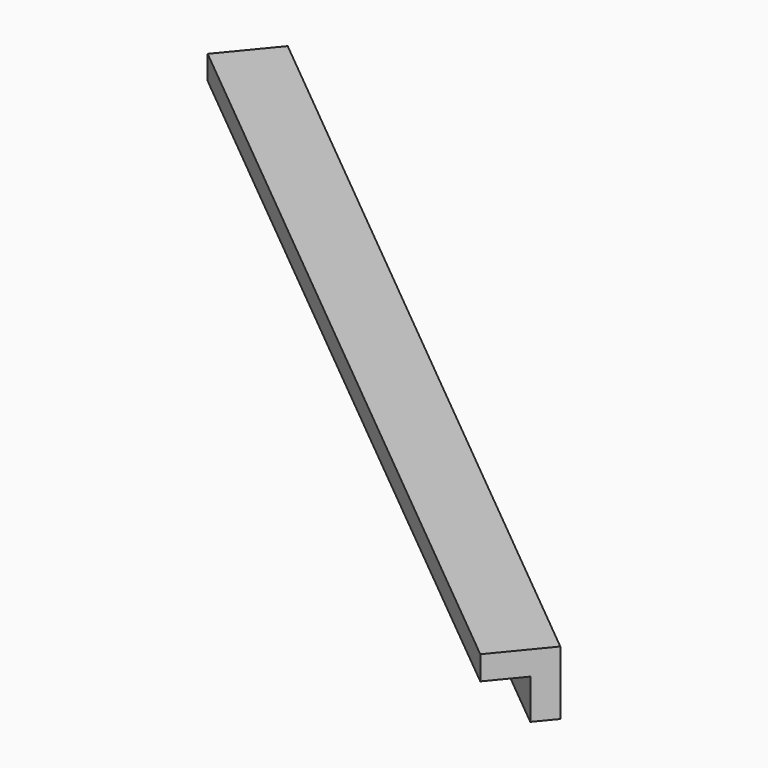
from build123d import *

# Parameters (mm, degrees)
BOX129_W               = 0.8
BOX129_H               = 13
BOX129_DEPTH           = 0.8
BOX130_W               = 0.8
BOX130_H               = 13
BOX130_DEPTH           = 0.8
CUT068_PLACEMENT_ANGLE = 50.5


with BuildPart() as cubo129:
    # Box129 → Box129 (new body)
    with BuildSketch(Plane.XY):
        with Locations((0.4, 6.5)):
            Rectangle(BOX129_W, BOX129_H)
    extrude(amount=BOX129_DEPTH)


with BuildPart() as obj1:
    # Box130 → Box130 (new body)
    with BuildSketch(Plane(origin=(0.3, 0, 0.3), x_dir=(1, 0, 0), z_dir=(0, 0, 1))):
        with Locations((0.4, 6.5)):
            Rectangle(BOX130_W, BOX130_H)
    extrude(amount=BOX130_DEPTH)

    # Cut068: cut Cubo129
    add(cubo129.part, mode=Mode.SUBTRACT)


with BuildPart() as obj1_1:
    # Cut068 placement: moved
    add(obj1.part.moved(Location((-169.4, 142.8, -1.45))).rotate(Axis((-169.4, 142.8, -1.45), (0, 0, 1)), CUT068_PLACEMENT_ANGLE))


solid = obj1_1.part
